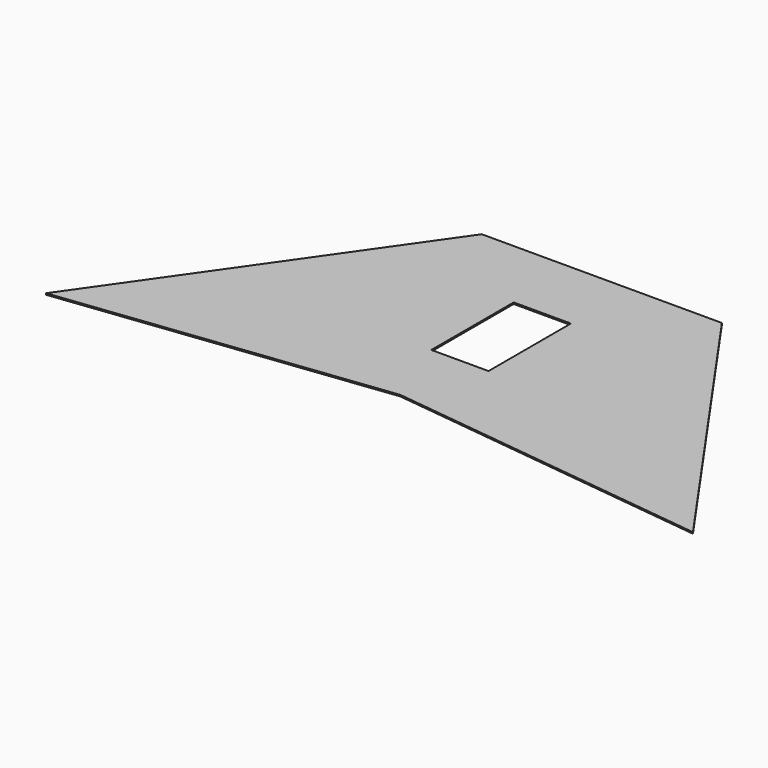
from build123d import *

# Parameters (mm, degrees)
F0_W     = 127
F0_H     = 228.6
F1_DEPTH = 3.175


with BuildPart() as f1:
    # F0 (on Top) → F1 (new body)
    with BuildSketch(Plane.XY):
        Polygon((494.707984, 342.899244), (-38.692016, 342.899244), (-490.326101, -302.101076), (228.007984, -216.434618), (946.34207, -302.101076), align=None)
        with Locations((228.007984, 63.232313)):
            Rectangle(F0_W, F0_H, mode=Mode.SUBTRACT)
    extrude(amount=F1_DEPTH)


solid = f1.part
